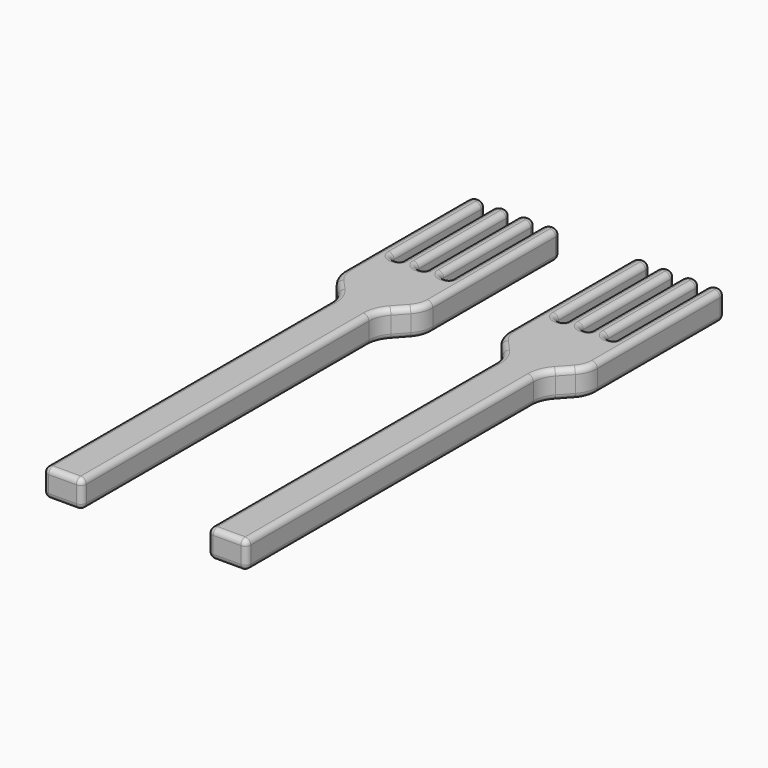
from build123d import *

# Parameters (mm, degrees)
F1_DEPTH = 5
F2_R     = 1


with BuildPart() as f1:
    # F0 (on Top) → F1 (new body)
    with BuildSketch(Plane.XY):
        with BuildLine():
            Line((3.530037, -44.058781), (10.530037, -44.058781))
            Line((10.530037, -44.058781), (10.530037, 20.941219))
            ThreePointArc((10.530037, 20.941219), (10.864808, 22.740007), (11.824294, 24.297923))
            Line((11.824294, 24.297923), (13.740383, 26.413253))
            ThreePointArc((13.740383, 26.413253), (14.699868, 27.971169), (15.03464, 29.769957))
            Line((15.03464, 29.769957), (15.03464, 57.566651))
            ThreePointArc((15.03464, 57.566651), (14.676738, 58.430702), (13.812687, 58.788603))
            Line((13.812687, 58.788603), (13.756592, 58.788603))
            ThreePointArc((13.756592, 58.788603), (12.892541, 58.430702), (12.53464, 57.566651))
            Line((12.53464, 57.566651), (12.53464, 37.125738))
            ThreePointArc((12.53464, 37.125738), (12.39532, 36.789392), (12.058974, 36.650073))
            Line((12.058974, 36.650073), (11.756592, 36.650073))
            ThreePointArc((11.756592, 36.650073), (10.892541, 37.007975), (10.53464, 37.872026))
            Line((10.53464, 37.872026), (10.53464, 57.566651))
            ThreePointArc((10.53464, 57.566651), (10.176738, 58.430702), (9.312687, 58.788603))
            Line((9.312687, 58.788603), (9.256592, 58.788603))
            ThreePointArc((9.256592, 58.788603), (8.392541, 58.430702), (8.03464, 57.566651))
            Line((8.03464, 57.566651), (8.03464, 37.125738))
            ThreePointArc((8.03464, 37.125738), (7.89532, 36.789392), (7.558974, 36.650073))
            Line((7.558974, 36.650073), (7.256592, 36.650073))
            ThreePointArc((7.256592, 36.650073), (6.392541, 37.007975), (6.03464, 37.872026))
            Line((6.03464, 37.872026), (6.03464, 57.566651))
            ThreePointArc((6.03464, 57.566651), (5.676738, 58.430702), (4.812687, 58.788603))
            Line((4.812687, 58.788603), (4.756592, 58.788603))
            ThreePointArc((4.756592, 58.788603), (3.892541, 58.430702), (3.53464, 57.566651))
            Line((3.53464, 57.566651), (3.53464, 37.125738))
            ThreePointArc((3.53464, 37.125738), (3.39532, 36.789392), (3.058974, 36.650073))
            Line((3.058974, 36.650073), (2.756592, 36.650073))
            ThreePointArc((2.756592, 36.650073), (1.892541, 37.007975), (1.53464, 37.872026))
            Line((1.53464, 37.872026), (1.53464, 57.566651))
            ThreePointArc((1.53464, 57.566651), (1.176738, 58.430702), (0.312687, 58.788603))
            Line((0.312687, 58.788603), (0.256592, 58.788603))
            ThreePointArc((0.256592, 58.788603), (-0.607459, 58.430702), (-0.96536, 57.566651))
            Line((-0.96536, 57.566651), (-0.96536, 36.650073))
            Line((-0.96536, 36.650073), (-0.96536, 29.767035))
            ThreePointArc((-0.96536, 29.767035), (-0.631504, 27.970621), (0.325482, 26.414104))
            Line((0.325482, 26.414104), (2.239195, 24.297072))
            ThreePointArc((2.239195, 24.297072), (3.196181, 22.740555), (3.530037, 20.94414))
            Line((3.530037, 20.94414), (3.530037, -44.058781))
        make_face()
    extrude(amount=F1_DEPTH)

    # F2
    f2_edges = [f1.edges().sort_by_distance(p)[0] for p in [
        (3.196181, 22.740555, 5),
        (3.530037, -11.557321, 5),
        (7.030037, -44.058781, 5),
        (10.530037, -11.558781, 5),
        (10.864808, 22.740007, 5),
        (12.782338, 25.355588, 5),
        (14.699868, 27.971169, 5),
        (15.03464, 43.668304, 5),
        (14.676738, 58.430702, 5),
        (13.78464, 58.788603, 5),
        (12.892541, 58.430702, 5),
        (12.53464, 47.346195, 5),
        (12.39532, 36.789392, 5),
        (11.907783, 36.650073, 5),
        (10.892541, 37.007975, 5),
        (10.53464, 47.719338, 5),
        (10.176738, 58.430702, 5),
        (9.28464, 58.788603, 5),
        (8.392541, 58.430702, 5),
        (8.03464, 47.346195, 5),
        (7.89532, 36.789392, 5),
        (7.407783, 36.650073, 5),
        (6.392541, 37.007975, 5),
        (6.03464, 47.719338, 5),
        (5.676738, 58.430702, 5),
        (4.78464, 58.788603, 5),
        (3.892541, 58.430702, 5),
        (3.53464, 47.346195, 5),
        (3.39532, 36.789392, 5),
        (2.907783, 36.650073, 5),
        (1.892541, 37.007975, 5),
        (1.53464, 47.719338, 5),
        (1.176738, 58.430702, 5),
        (0.28464, 58.788603, 5),
        (-0.607459, 58.430702, 5),
        (-0.96536, 43.666843, 5),
        (-0.631504, 27.970621, 5),
        (1.282338, 25.355588, 5),
        (3.196181, 22.740555, 0),
        (3.530037, -11.557321, 0),
        (7.030037, -44.058781, 0),
        (10.530037, -11.558781, 0),
        (10.864808, 22.740007, 0),
        (12.782338, 25.355588, 0),
        (14.699868, 27.971169, 0),
        (15.03464, 43.668304, 0),
        (14.676738, 58.430702, 0),
        (13.78464, 58.788603, 0),
        (12.892541, 58.430702, 0),
        (12.53464, 47.346195, 0),
        (12.39532, 36.789392, 0),
        (11.907783, 36.650073, 0),
        (10.892541, 37.007975, 0),
        (10.53464, 47.719338, 0),
        (10.176738, 58.430702, 0),
        (9.28464, 58.788603, 0),
        (8.392541, 58.430702, 0),
        (8.03464, 47.346195, 0),
        (7.89532, 36.789392, 0),
        (7.407783, 36.650073, 0),
        (6.392541, 37.007975, 0),
        (6.03464, 47.719338, 0),
        (5.676738, 58.430702, 0),
        (4.78464, 58.788603, 0),
        (3.892541, 58.430702, 0),
        (3.53464, 47.346195, 0),
        (3.39532, 36.789392, 0),
        (2.907783, 36.650073, 0),
        (1.892541, 37.007975, 0),
        (1.53464, 47.719338, 0),
        (1.176738, 58.430702, 0),
        (0.28464, 58.788603, 0),
        (-0.607459, 58.430702, 0),
        (-0.96536, 43.666843, 0),
        (-0.631504, 27.970621, 0),
        (1.282338, 25.355588, 0),
        (15.03464, 57.566651, 2.5),
        (13.812687, 58.788603, 2.5),
        (10.530037, -44.058781, 2.5),
        (10.530037, 20.941219, 2.5),
        (3.530037, -44.058781, 2.5),
    ]]
    fillet(f2_edges, radius=F2_R)


with BuildPart() as f3_1:
    # F3: copy of F1
    add(f1.part.moved(Location((29.8, 0, 0))))


solid = Compound([f1.part, f3_1.part])
